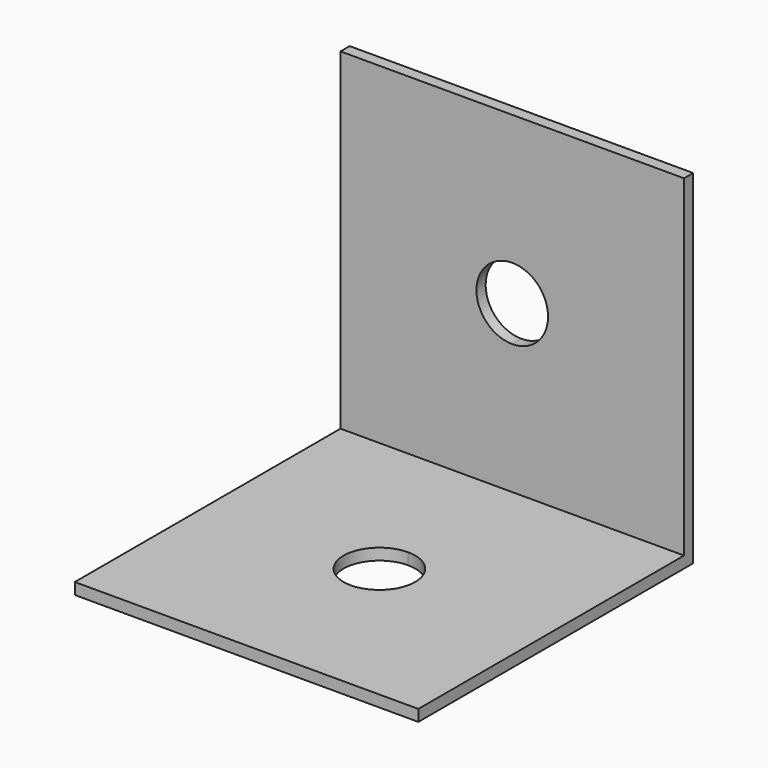
from build123d import *

# Parameters (mm, degrees)
F0_W     = 38.1
F0_H     = 38.1
F1_DEPTH = 38.1
F2_W     = 38.1
F2_H     = 36.83
F3_DEPTH = 36.83
F6_DEPTH = 3.81
F7_DEPTH = 4.826


with BuildPart() as f1:
    # F0 (on Top) → F1 (new body)
    with BuildSketch(Plane.XY):
        Rectangle(F0_W, F0_H)
    extrude(amount=F1_DEPTH)

    # F2 (on face) → F3 (cut)
    with BuildSketch(Plane.XY.offset(38.1)):
        with Locations((0, -0.635)):
            Rectangle(F2_W, F2_H)
    extrude(amount=-F3_DEPTH, mode=Mode.SUBTRACT)

    # F4 (on face) → F6 (cut)
    with BuildSketch(Plane.XZ.offset(-17.78)):
        with BuildLine():
            ThreePointArc((3.96875, 19.685), (2.80633, 22.49133), (0, 23.65375))
            Line((0, 23.65375), (0, 15.71625))
            ThreePointArc((0, 15.71625), (2.80633, 16.87867), (3.96875, 19.685))
        make_face()
        with BuildLine():
            Line((0, 15.71625), (0, 23.65375))
            ThreePointArc((0, 23.65375), (-3.96875, 19.685), (0, 15.71625))
        make_face()
    extrude(amount=-F6_DEPTH, mode=Mode.SUBTRACT)

    # F5 (on face) → F7 (cut)
    with BuildSketch(Plane.XY.offset(1.27)):
        with BuildLine():
            ThreePointArc((3.96875, -0.635), (2.80633, 2.17133), (0, 3.33375))
            Line((0, 3.33375), (0, -4.60375))
            ThreePointArc((0, -4.60375), (2.80633, -3.44133), (3.96875, -0.635))
        make_face()
        with BuildLine():
            Line((0, -4.60375), (0, 3.33375))
            ThreePointArc((0, 3.33375), (-3.96875, -0.635), (0, -4.60375))
        make_face()
    extrude(amount=-F7_DEPTH, mode=Mode.SUBTRACT)


solid = f1.part
